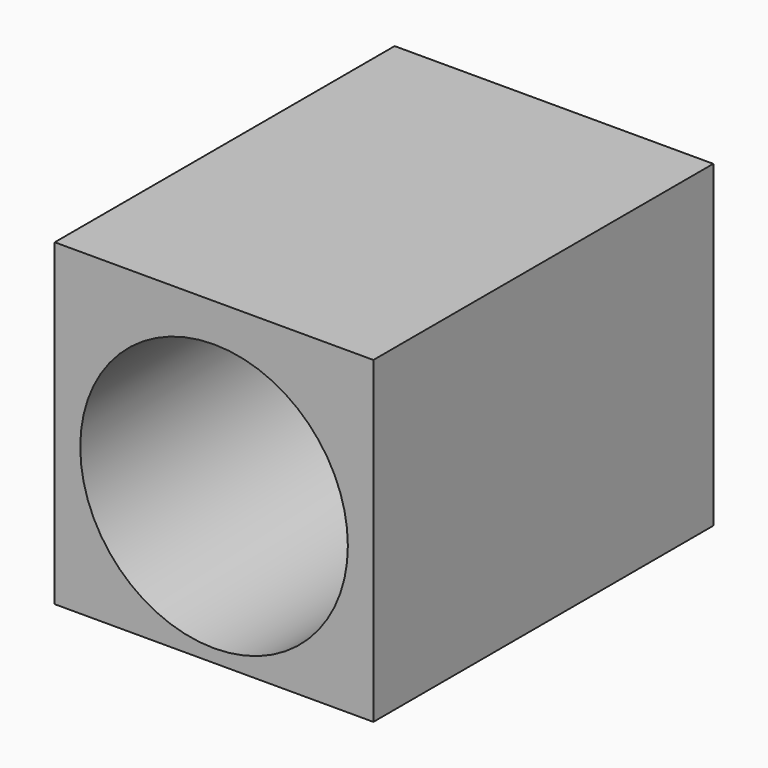
from build123d import *

# Parameters (mm, degrees)
F0_W     = 76.2
F0_H     = 76.2
F1_DEPTH = 50.8
F2_R     = 31.996287
F3_DEPTH = 76.2


with BuildPart() as f1:
    # F0 (on Front) → F1 (new body, symmetric)
    with BuildSketch(Plane.XZ):
        with Locations((32.332626, -29.765826)):
            Rectangle(F0_W, F0_H)
    extrude(amount=F1_DEPTH, both=True)

    # F2 (on face) → F3 (cut)
    with BuildSketch(Plane.XZ.offset(50.8)):
        with Locations((32.332626, -32.764994)):
            Circle(F2_R)
    extrude(amount=-F3_DEPTH, mode=Mode.SUBTRACT)


solid = f1.part
